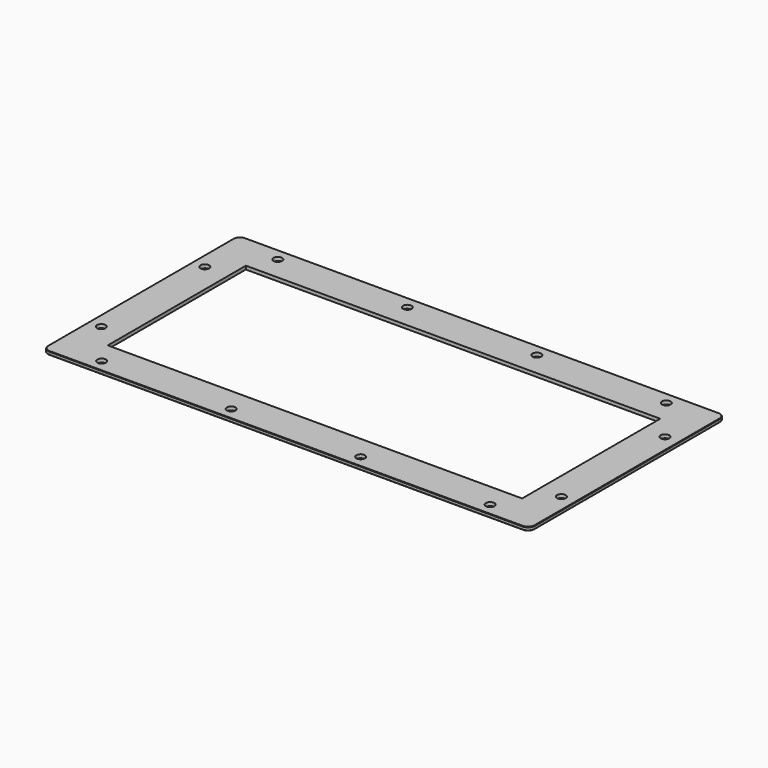
from build123d import *

# Parameters (mm, degrees)
F0_W     = 480
F0_H     = 200
F1_DEPTH = 4
F3_D     = 10
F4_SIZE  = 0.5


with BuildPart() as f1:
    # F0 (on Top) → F1 (new body)
    with BuildSketch(Plane.XY):
        with BuildLine():
            Line((-274, -142), (274, -142))
            ThreePointArc((274, -142), (279.656854, -139.656854), (282, -134))
            Line((282, -134), (282, 134))
            ThreePointArc((282, 134), (279.656854, 139.656854), (274, 142))
            Line((274, 142), (-274, 142))
            ThreePointArc((-274, 142), (-279.656854, 139.656854), (-282, 134))
            Line((-282, 134), (-282, -134))
            ThreePointArc((-282, -134), (-279.656854, -139.656854), (-274, -142))
        make_face()
        Rectangle(F0_W, F0_H, mode=Mode.SUBTRACT)
    extrude(amount=F1_DEPTH)

    # F3 (through all)
    with Locations(Plane.XY.offset(4)):
        with Locations((-225, 127.5), (-75, 127.5), (75, 127.5), (225, 127.5), (265.5, 75), (265.5, -75), (225, -127.5), (75, -127.5), (-75, -127.5), (-225, -127.5), (-267.5, 75), (-267.5, -75)):
            Hole(F3_D / 2)

    # F4
    f4_edges = [f1.edges().sort_by_distance(p)[0] for p in [
        (0, -142, 4),
        (-274, -142, 2),
        (274, -142, 2),
        (0, -142, 0),
    ]]
    chamfer(f4_edges, length=F4_SIZE)


solid = f1.part
